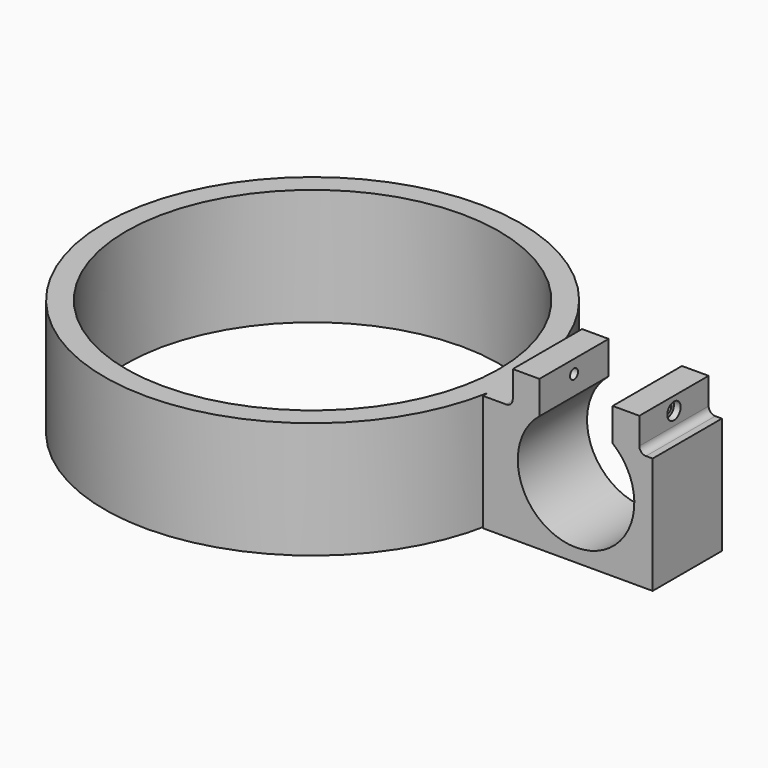
from build123d import *

# Parameters (mm, degrees)
F0_R            = 56
F0_R_2          = 62.5
F1_DEPTH        = 35
F3_DEPTH        = 1
F4_W            = 26
F4_H            = 35
F5_DEPTH        = 50
F6_W            = 8
F6_H            = 10
F7_DEPTH        = 26
F8_R            = 17.5
F9_DEPTH        = 50
F10_R           = 2
F12_D           = 3
F12_DEPTH       = 8
F12_CBORE_D     = 5
F12_CBORE_DEPTH = 2
F14_D           = 3
F14_DEPTH       = 8
F14_CBORE_D     = 5
F14_CBORE_DEPTH = 2


with BuildPart() as f1:
    # F0 (on Top) → F1 (new body)
    with BuildSketch(Plane.XY):
        with Locations((-62.5, 0)):
            Circle(F0_R)
        with Locations((-62.5, 0)):
            Circle(F0_R_2)
        with Locations((-62.5, 0)):
            Circle(F0_R, mode=Mode.SUBTRACT)
    extrude(amount=F1_DEPTH)

    # F2 (on Right) → F3 (join)
    with BuildSketch(Plane.YZ):
        Polygon((-13, 0), (0, 0), (13, 0), (13, 35), (-13, 35), align=None)
    extrude(amount=-F3_DEPTH)

    # F4 (on face) → F5 (join)
    with BuildSketch(Plane.YZ):
        with Locations((0, 17.5)):
            Rectangle(F4_W, F4_H)
    extrude(amount=F5_DEPTH)

    # F6 (on face) → F7 (join)
    with BuildSketch(Plane.XZ.offset(13)):
        with Locations((42, 40)):
            Rectangle(F6_W, F6_H)
        with Locations((12, 40)):
            Rectangle(F6_W, F6_H)
    extrude(amount=-F7_DEPTH)

    # F8 (on face) → F9 (cut)
    with BuildSketch(Plane.XZ.offset(13)):
        with Locations((27, 21.5)):
            Circle(F8_R)
    extrude(amount=-F9_DEPTH, mode=Mode.SUBTRACT)

    # F10
    f10_edges = [f1.edges().sort_by_distance(p)[0] for p in [
        (46, 0, 35),
        (8, 0, 35),
    ]]
    fillet(f10_edges, radius=F10_R)

    # F12
    with Locations(Plane.YZ.offset(46)):
        with Locations((0, 41)):
            CounterBoreHole(F12_D / 2, F12_CBORE_D / 2, F12_CBORE_DEPTH, depth=F12_DEPTH)

    # F14
    with Locations(Plane(origin=(8, 0, 0), x_dir=(0, -1, 0), z_dir=(-1, 0, 0))):
        with Locations((0, 41)):
            CounterBoreHole(F14_D / 2, F14_CBORE_D / 2, F14_CBORE_DEPTH, depth=F14_DEPTH)


solid = f1.part
